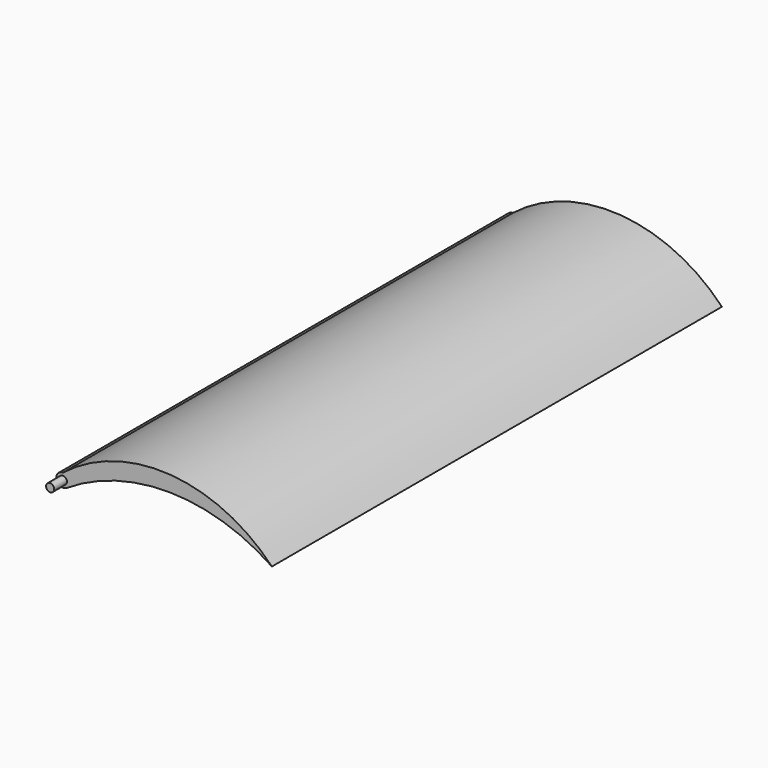
from build123d import *

# Parameters (mm, degrees)
F1_DEPTH = 700
F2_R     = 5
F3_DEPTH = 20
F4_R     = 5
F5_DEPTH = 20


with BuildPart() as f1:
    # F0 (on Front) → F1 (new body)
    with BuildSketch(Plane.XZ):
        with BuildLine():
            ThreePointArc((4.5232568237, 2.9976497203), (132.7131971979, 39.9840828273), (260, 0))
            ThreePointArc((260, 0), (133.5510610534, 59.5206573171), (0, 18.3362318665))
            ThreePointArc((0, 18.3362318665), (5.8946060824, 15.8946060824), (8.3362318665, 10))
            ThreePointArc((8.3362318665, 10), (7.3211911397, 6.0134072155), (4.5232568237, 2.9976497203))
        make_face()
        with BuildLine():
            Line((0, 18.3362318665), (0, 1.6637681335))
            ThreePointArc((0, 1.6637681335), (2.3579171095, 2.0041893071), (4.5232568237, 2.9976497203))
            ThreePointArc((4.5232568237, 2.9976497203), (7.3211911397, 6.0134072155), (8.3362318665, 10))
            ThreePointArc((8.3362318665, 10), (5.8946060824, 15.8946060824), (0, 18.3362318665))
        make_face()
        with BuildLine():
            ThreePointArc((0, 18.3362318665), (-8.3362318665, 10), (0, 1.6637681335))
            Line((0, 1.6637681335), (0, 18.3362318665))
        make_face()
    extrude(amount=F1_DEPTH)

    # F2 (on face) → F3 (join)
    with BuildSketch(Plane.XZ.offset(700)):
        with Locations((0, 10)):
            Circle(F2_R)
    extrude(amount=F3_DEPTH)

    # F4 (on face) → F5 (join)
    with BuildSketch(Plane(origin=(0, 0, 0), x_dir=(-1, 0, 0), z_dir=(0, 1, 0))):
        with Locations((0, 10)):
            Circle(F4_R)
    extrude(amount=F5_DEPTH)


solid = f1.part
